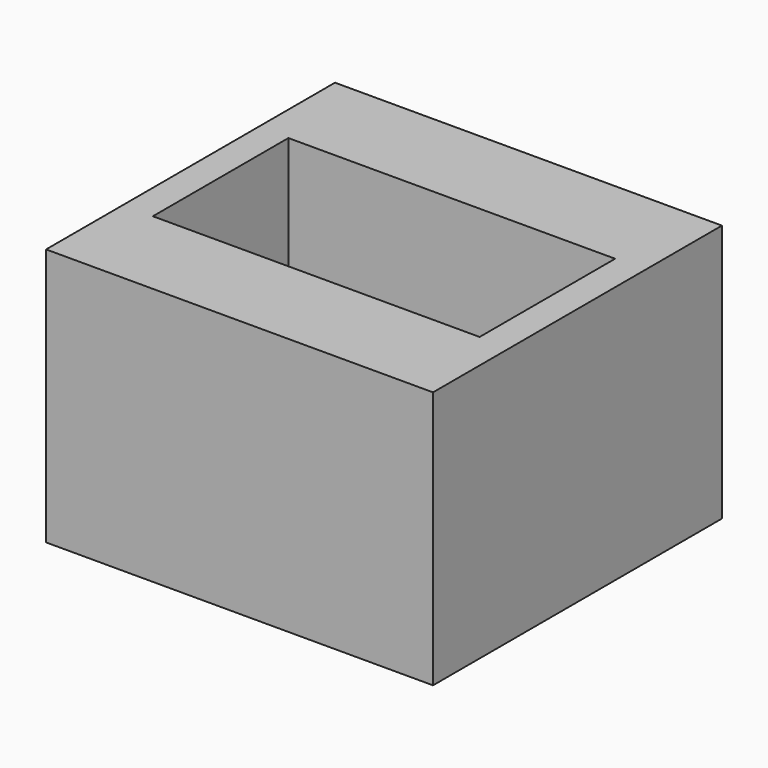
from build123d import *

# Parameters (mm, degrees)
F1_W     = 45
F1_H     = 42
F2_DEPTH = 30
F0_W     = 38
F0_H     = 19.7
F3_DEPTH = 28


with BuildPart() as f2:
    # F1 (on Top) → F2 (new body)
    with BuildSketch(Plane.XY):
        Rectangle(F1_W, F1_H)
    extrude(amount=-F2_DEPTH)

    # F0 (on Top) → F3 (cut)
    with BuildSketch(Plane.XY):
        Rectangle(F0_W, F0_H)
    extrude(amount=-F3_DEPTH, mode=Mode.SUBTRACT)


solid = f2.part
